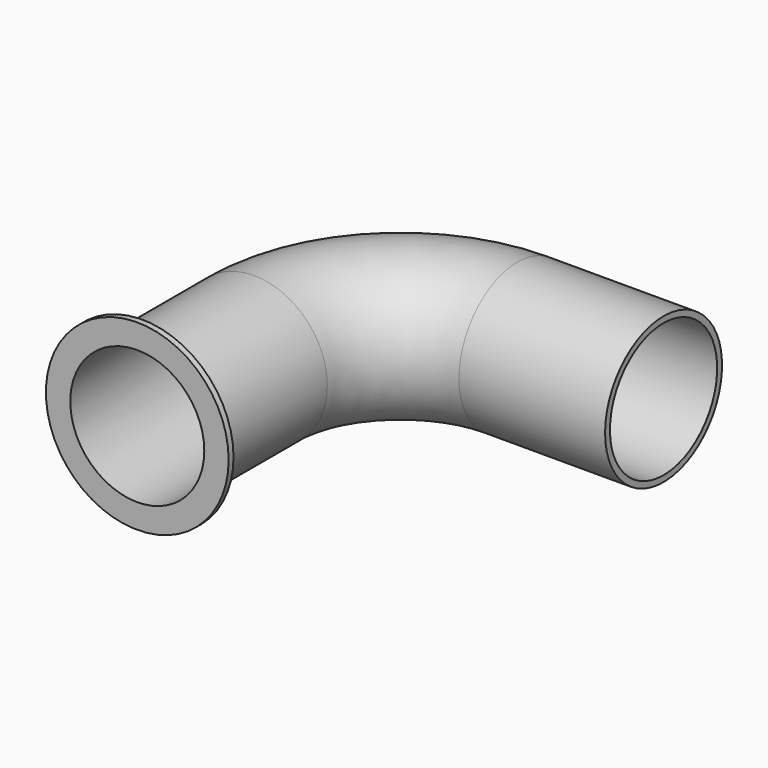
from build123d import *

# Parameters (mm, degrees)
F0_R     = 76.2
F3_T     = -6.35
F0_R_2   = 95.25
F4_DEPTH = 6.35


with BuildPart() as f2:
    # F2: sweep along a path in F1
    with BuildLine(Plane.XY) as f2_path:
        Line((0, 0), (0, 152.4))
        ThreePointArc((0, 152.4), (44.6369265472, 260.1630734528), (152.4, 304.8))
        Line((152.4, 304.8), (304.8, 304.8))
    # F0 (on Front) → F2 (sweep)
    with BuildSketch(Plane.XZ):
        Circle(F0_R)
    sweep(path=f2_path.line)

    # F3
    f3_openings = [f2.faces().sort_by_distance(p)[0] for p in [
        (0, 0, 0),
        (304.8, 304.8, 0),
    ]]
    offset(amount=F3_T, openings=f3_openings)

    # F0 (on Front) → F4 (join)
    with BuildSketch(Plane.XZ):
        Circle(F0_R_2)
        Circle(F0_R, mode=Mode.SUBTRACT)
    extrude(amount=-F4_DEPTH)


solid = f2.part
